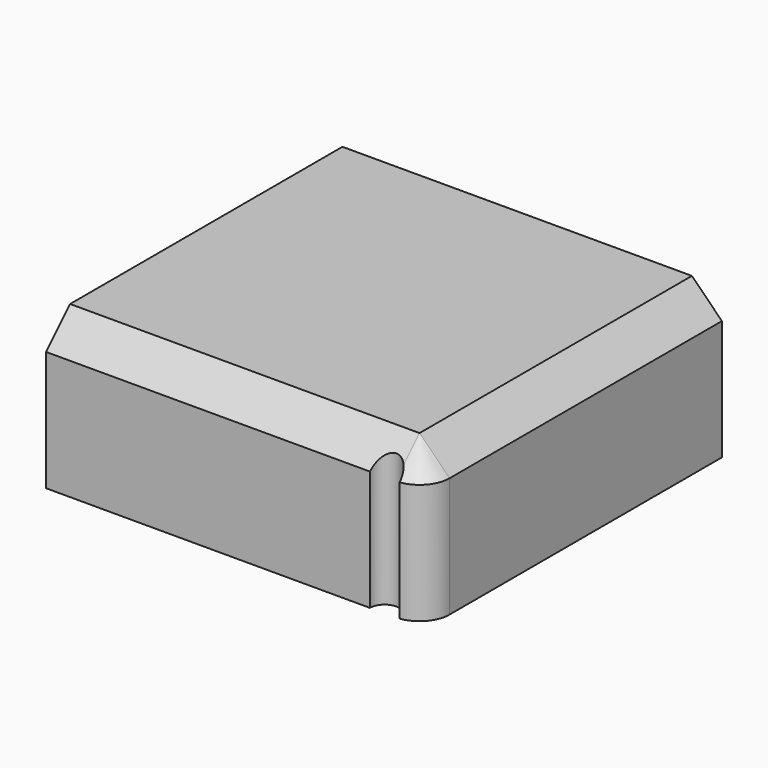
from build123d import *

# Parameters (mm, degrees)
F0_W     = 64.246036
F0_H     = 62.718913
F2_DEPTH = 25.4
F3_R     = 5.08
F4_SIZE  = 5.08
F5_D     = 5


with BuildPart() as f2:
    # F0 (on Top) → F2 (new body)
    with BuildSketch(Plane.XY):
        with Locations((-32.123018, 31.359457)):
            Rectangle(F0_W, F0_H)
    extrude(amount=F2_DEPTH)

    # F3
    f3_edges = [f2.edges().sort_by_distance(p)[0] for p in [
        (0, 0, 12.7),
    ]]
    fillet(f3_edges, radius=F3_R)

    # F4
    f4_edges = [f2.edges().sort_by_distance(p)[0] for p in [
        (0, 33.899456, 25.4),
    ]]
    chamfer(f4_edges, length=F4_SIZE)

    # F5 (through all)
    with Locations(Plane(origin=(0, 0, 0), x_dir=(1, 0, 0), z_dir=(0, 0, -1))):
        with Locations((-6.916952, 0)):
            Hole(F5_D / 2)


solid = f2.part
